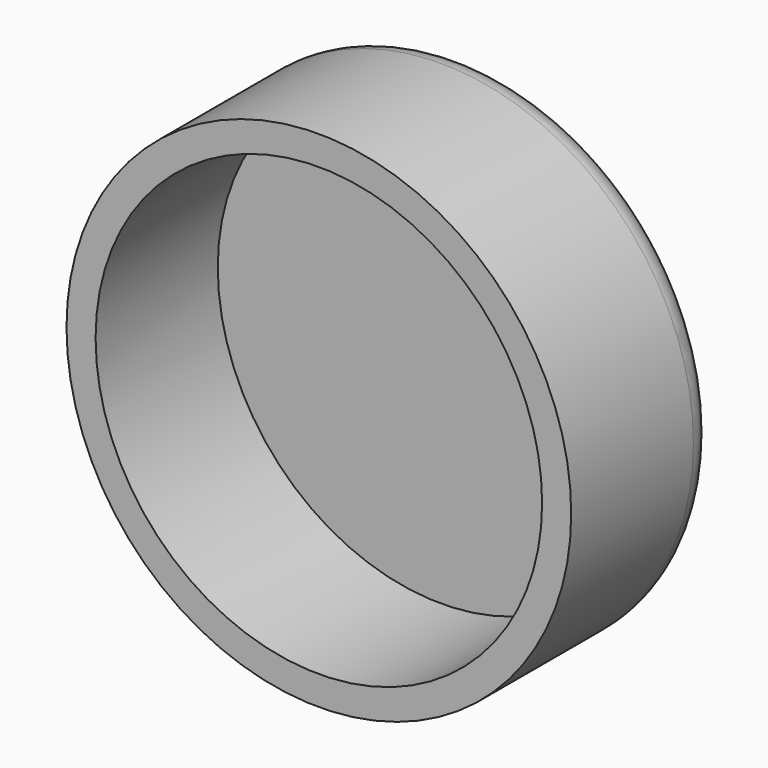
from build123d import *

# Parameters (mm, degrees)
F2_R = 2


with BuildPart() as f1:
    # F0 (on Top) → F1 (revolve)
    with BuildSketch(Plane.XY):
        Polygon((17.35, 12.5), (0, 12.5), (0, 10.5), (15.35, 10.5), (15.35, 0), (17.35, 0), align=None)
    revolve(axis=Axis((0, 6.25, 0), (0, 1, 0)))

    # F2
    f2_edges = [f1.edges().sort_by_distance(p)[0] for p in [
        (-17.35, 12.5, 0),
    ]]
    fillet(f2_edges, radius=F2_R)


solid = f1.part
